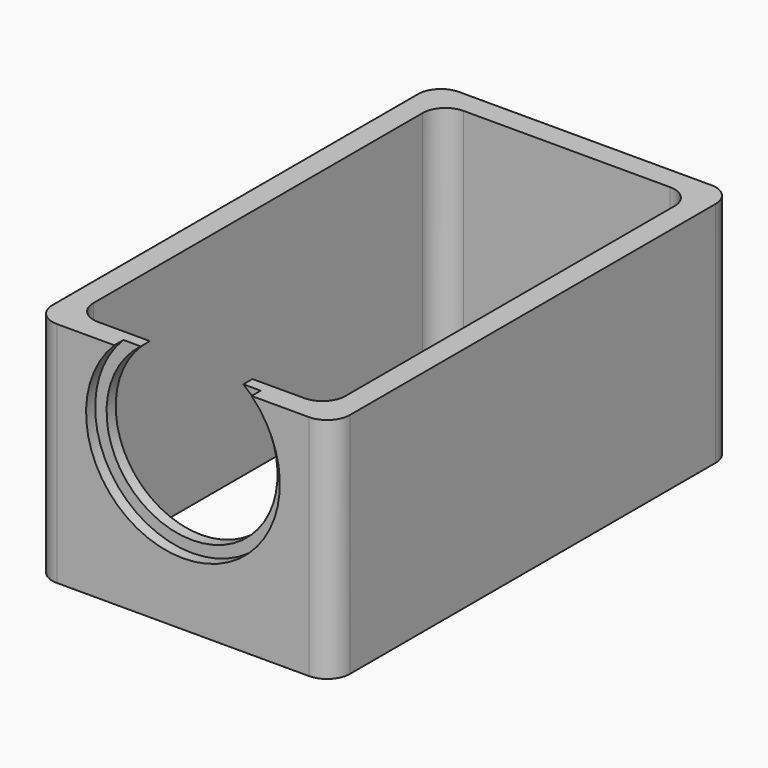
from build123d import *

# Parameters (mm, degrees)
F0_W     = 26.1
F0_H     = 44.1
F0_W_2   = 22.1
F0_H_2   = 40.1
F1_DEPTH = 10
F2_R     = 7.5
F3_DEPTH = 10
F4_R     = 8.5
F4_R_2   = 7.5
F5_DEPTH = 1
F6_R     = 2
F7_R     = 2


with BuildPart() as f1:
    # F0 (on Top) → F1 (new body, symmetric)
    with BuildSketch(Plane.XY):
        Rectangle(F0_W, F0_H)
        Rectangle(F0_W_2, F0_H_2, mode=Mode.SUBTRACT)
    extrude(amount=F1_DEPTH, both=True)

    # F2 (on face) → F3 (cut)
    with BuildSketch(Plane.XZ.offset(22.05)):
        with Locations((0, 4)):
            Circle(F2_R)
    extrude(amount=-F3_DEPTH, mode=Mode.SUBTRACT)

    # F4 (on face) → F5 (cut)
    with BuildSketch(Plane.XZ.offset(22.05)):
        with Locations((0, 4)):
            Circle(F4_R)
        with Locations((0, 4)):
            Circle(F4_R_2, mode=Mode.SUBTRACT)
    extrude(amount=-F5_DEPTH, mode=Mode.SUBTRACT)

    # F6
    f6_edges = [f1.edges().sort_by_distance(p)[0] for p in [
        (-13.05, -22.05, 0),
        (13.05, -22.05, 0),
        (13.05, 22.05, 0),
        (-13.05, 22.05, 0),
    ]]
    fillet(f6_edges, radius=F6_R)

    # F7
    f7_edges = [f1.edges().sort_by_distance(p)[0] for p in [
        (-11.05, 20.05, 0),
        (11.05, 20.05, 0),
        (11.05, -20.05, 0),
        (-11.05, -20.05, 0),
    ]]
    fillet(f7_edges, radius=F7_R)


solid = f1.part
